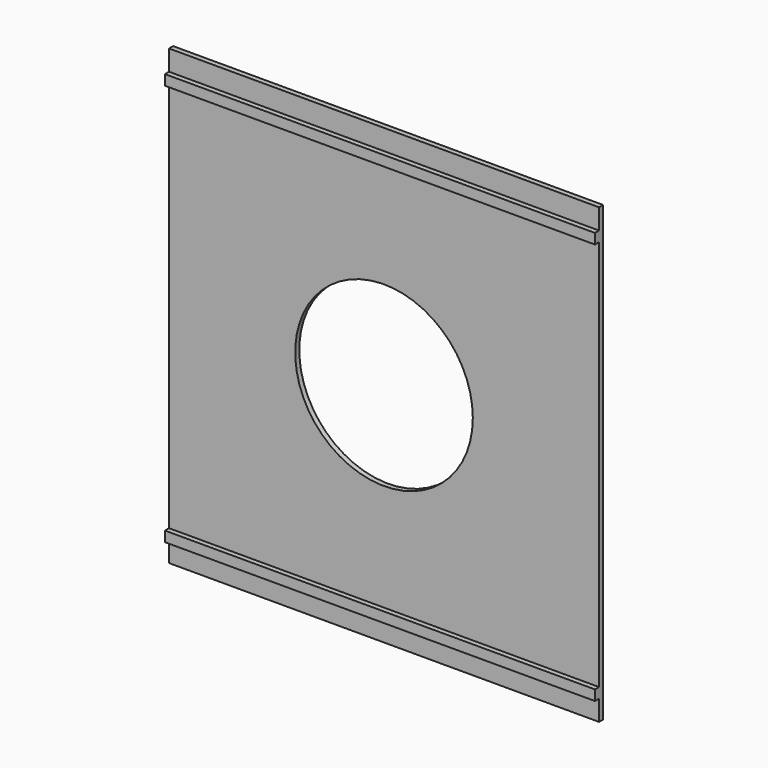
from build123d import *

# Parameters (mm, degrees)
F0_W     = 84
F0_H     = 88.5
F0_R     = 17.35
F1_DEPTH = 1
F2_W     = 84
F2_H     = 2
F3_DEPTH = 1


with BuildPart() as f1:
    # F0 (on Front) → F1 (new body)
    with BuildSketch(Plane.XZ):
        Rectangle(F0_W, F0_H)
        Circle(F0_R, mode=Mode.SUBTRACT)
    extrude(amount=F1_DEPTH)

    # F2 (on face) → F3 (join)
    with BuildSketch(Plane.XZ.offset(1)):
        with Locations((0, 39.25)):
            Rectangle(F2_W, F2_H)
        with Locations((0, -39.25)):
            Rectangle(F2_W, F2_H)
    extrude(amount=F3_DEPTH)


solid = f1.part
